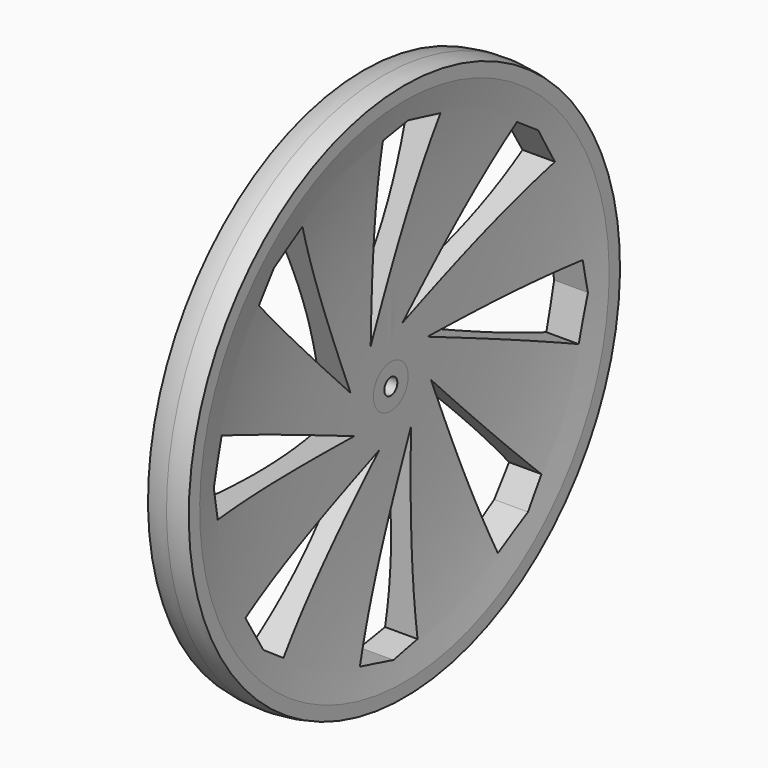
from build123d import *

# Parameters (mm, degrees)
F0_W     = 25
F0_H     = 10
F0_W_2   = 5
F0_W_3   = 15
F3_DEPTH = 30


with BuildPart() as f1:
    # F0 (on Front) → F1 (revolve)
    with BuildSketch(Plane.XZ):
        with Locations((-12.5, 11)):
            Rectangle(F0_W, F0_H)
        with Locations((2.5, 11)):
            Rectangle(F0_W_2, F0_H)
        with BuildLine():
            Line((-25, 16), (0, 16))
            Line((0, 16), (0, 188.245553))
            Line((0, 188.245553), (-15, 188.245553))
            add(Edge.make_bspline(
                [(-15, 188.245553), (-5, 131.617556), (-5, 70.201832), (-25, 16)],
                knots=[0, 0, 0, 0, 172.535592, 172.535592, 172.535592, 172.535592], degree=3))
        make_face()
        with BuildLine():
            Line((0, 188.245553), (0, 16))
            Line((0, 16), (5, 16))
            add(Edge.make_bspline(
                [(15, 188.245553), (5, 131.617556), (5, 73.32223), (5, 16)],
                knots=[0, 0, 0, 0, 172.535592, 172.535592, 172.535592, 172.535592], degree=3))
            Line((15, 188.245553), (0, 188.245553))
        make_face()
        with Locations((-7.5, 193.245553)):
            Rectangle(F0_W_3, F0_H)
        with Locations((7.5, 193.245553)):
            Rectangle(F0_W_3, F0_H)
        with BuildLine():
            Line((-15, 198.245553), (0, 198.245553))
            Line((0, 198.245553), (0, 200))
            ThreePointArc((0, 200), (-7.551127, 199.559898), (-15, 198.245553))
        make_face()
        with BuildLine():
            Line((0, 200), (0, 198.245553))
            Line((0, 198.245553), (15, 198.245553))
            ThreePointArc((15, 198.245553), (7.551127, 199.559898), (0, 200))
        make_face()
    revolve(axis=Axis((27.949198, 0, 0), (1, 0, 0)))

    # F2 (on face) → F3 (cut, symmetric)
    with BuildSketch(Plane.YZ.offset(5)):
        Polygon((-18.519048, 33.698767), (37.071585, 164.14169), (6.739662, 171.988204), (-15.932535, 167.790479), align=None)
        Polygon((-89.852133, 142.279271), (-116.848364, 126.379686), (-129.91179, 107.379782), (-36.923571, 10.733683), align=None)
        Polygon((-164.14169, 37.071585), (-171.988204, 6.739662), (-167.790479, -15.932535), (-33.698767, -18.519048), align=None)
        Polygon((-142.279271, -89.852133), (-126.379686, -116.848364), (-107.379782, -129.91179), (-10.733683, -36.923571), align=None)
        Polygon((-37.071585, -164.14169), (-6.739662, -171.988204), (15.932535, -167.790479), (18.519048, -33.698767), align=None)
        Polygon((89.852133, -142.279271), (116.848364, -126.379686), (129.91179, -107.379782), (36.923571, -10.733683), align=None)
        Polygon((164.14169, -37.071585), (171.988204, -6.739662), (167.790479, 15.932535), (33.698767, 18.519048), align=None)
        Polygon((142.279271, 89.852133), (126.379686, 116.848364), (107.379782, 129.91179), (10.733683, 36.923571), align=None)
    extrude(amount=F3_DEPTH, both=True, mode=Mode.SUBTRACT)


solid = f1.part
